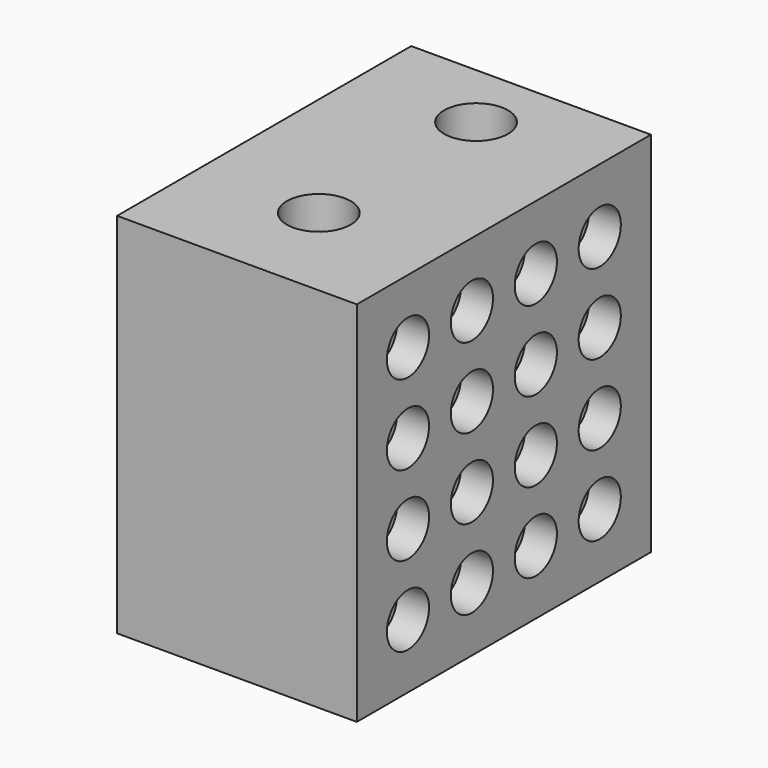
from build123d import *

# Parameters (mm, degrees)
F0_W     = 19.05
F0_H     = 29.21
F0_R     = 2.54
F1_DEPTH = 29.21
F2_R     = 2.0955
F3_DEPTH = 2.54


with BuildPart() as f1:
    # F0 (on Top) → F1 (new body)
    with BuildSketch(Plane.XY):
        with Locations((-9.525, 14.605)):
            Rectangle(F0_W, F0_H)
        with Locations((-9.525, 8.128)):
            Circle(F0_R, mode=Mode.SUBTRACT)
        with Locations((-9.525, 23.749)):
            Circle(F0_R, mode=Mode.SUBTRACT)
    extrude(amount=F1_DEPTH)

    # F2 (on face) → F3 (cut)
    with BuildSketch(Plane.YZ):
        with Locations((5.08, 24.13)):
            Circle(F2_R)
        with Locations((11.429541, 24.13)):
            Circle(F2_R)
        with Locations((17.779081, 24.13)):
            Circle(F2_R)
        with Locations((24.128622, 24.13)):
            Circle(F2_R)
        with Locations((24.128622, 17.78)):
            Circle(F2_R)
        with Locations((17.779081, 17.78)):
            Circle(F2_R)
        with Locations((11.429541, 17.78)):
            Circle(F2_R)
        with Locations((5.08, 17.78)):
            Circle(F2_R)
        with Locations((24.128622, 11.43)):
            Circle(F2_R)
        with Locations((17.779081, 11.43)):
            Circle(F2_R)
        with Locations((11.429541, 11.43)):
            Circle(F2_R)
        with Locations((5.08, 11.43)):
            Circle(F2_R)
        with Locations((24.128622, 5.08)):
            Circle(F2_R)
        with Locations((17.779081, 5.08)):
            Circle(F2_R)
        with Locations((11.429541, 5.08)):
            Circle(F2_R)
        with Locations((5.08, 5.08)):
            Circle(F2_R)
    extrude(amount=-F3_DEPTH, mode=Mode.SUBTRACT)


solid = f1.part
